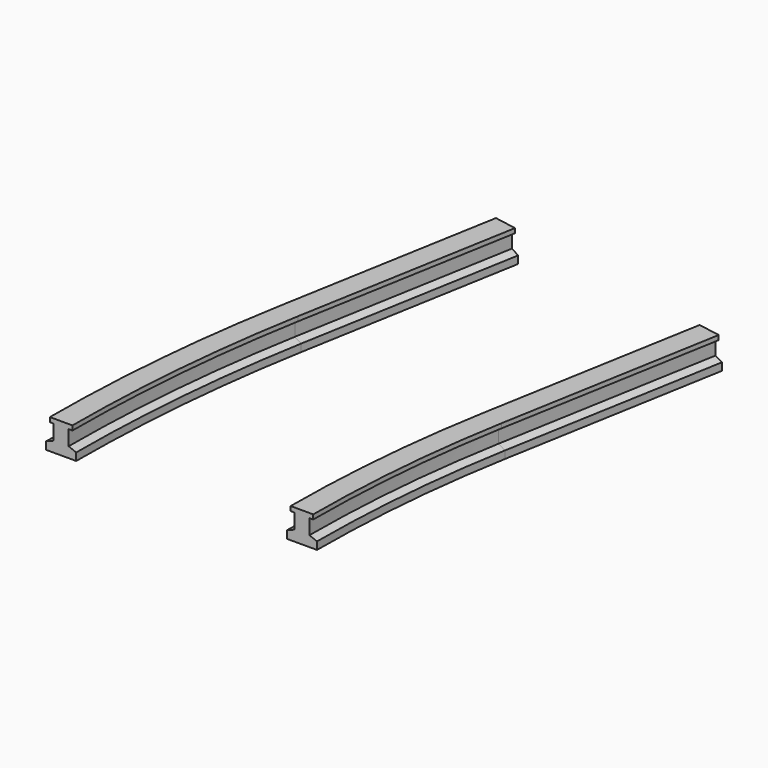
from build123d import *


with BuildPart() as f2:
    # F2: sweep along a path in F0
    with BuildLine(Plane.XY) as f2_path:
        ThreePointArc((0, 0), (0.342477, 7.844017), (1.367302, 15.628336))
        Line((1.367302, 15.628336), (3.972025, 30.400452))
    # F1 (on Front) → F2 (sweep)
    with BuildSketch(Plane.XZ):
        Polygon((-9, 0), (-8, 0), (-7, 0), (-7, 0.5), (-7.5, 0.7), (-7.5, 1.7), (-7.25, 1.7), (-7.25, 2), (-8, 2), (-8.75, 2), (-8.75, 1.7), (-8.5, 1.7), (-8.5, 0.7), (-9, 0.5), align=None)
        Polygon((8, 0), (9, 0), (9, 0.5), (8.5, 0.7), (8.5, 1.7), (8.75, 1.7), (8.75, 2), (8, 2), (7.25, 2), (7.25, 1.7), (7.5, 1.7), (7.5, 0.7), (7, 0.5), (7, 0), align=None)
    sweep(path=f2_path.line)


solid = f2.part
